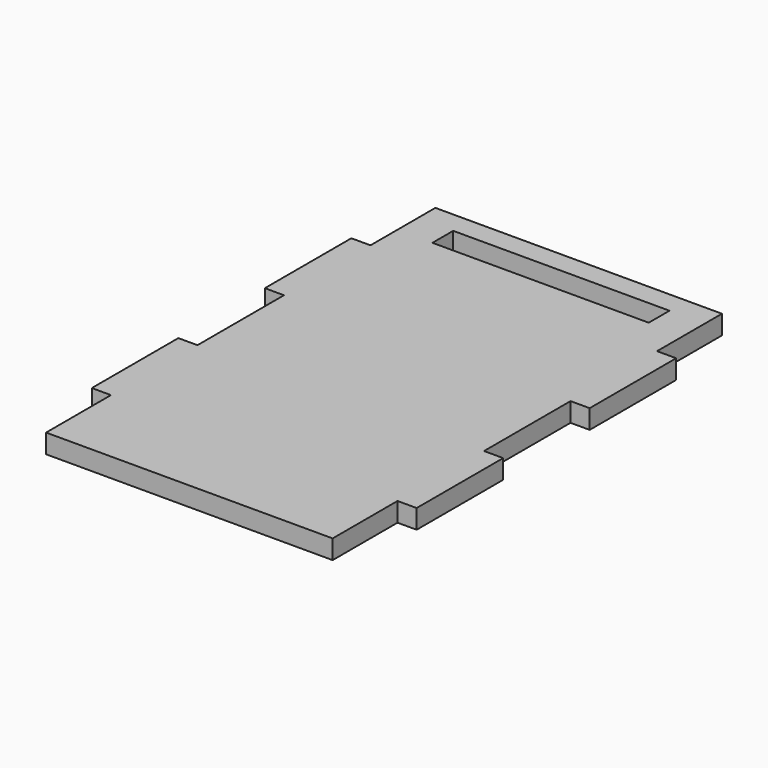
from build123d import *

# Parameters (mm, degrees)
F1_DEPTH = 4.4958
F3_DEPTH = 4.4968


with BuildPart() as f1:
    # F0 (on Top) → F1 (new body)
    with BuildSketch(Plane.XY):
        Polygon((33.655, 57.15), (-33.655, 57.15), (-33.655, 38.1), (-38.1508, 38.1), (-38.1508, 12.7), (-33.655, 12.7), (-33.655, 0), (-33.655, -12.7), (-38.1508, -12.7), (-38.1508, -38.1), (-33.655, -38.1), (-33.655, -57.15), (33.655, -57.15), (33.655, -38.1), (38.1508, -38.1), (38.1508, -12.7), (33.655, -12.7), (33.655, 0), (33.655, 12.7), (38.1508, 12.7), (38.1508, 38.1), (33.655, 38.1), align=None)
    extrude(amount=F1_DEPTH)

    # F2 (on face) → F3 (cut, through all)
    with BuildSketch(Plane.XY.offset(4.4958)):
        Polygon((25.4, 52.07), (-25.4, 52.07), (-25.4, 45.974), (-9.525, 45.974), (9.525, 45.974), (25.4, 45.974), align=None)
    extrude(amount=-F3_DEPTH, mode=Mode.SUBTRACT)


solid = f1.part
